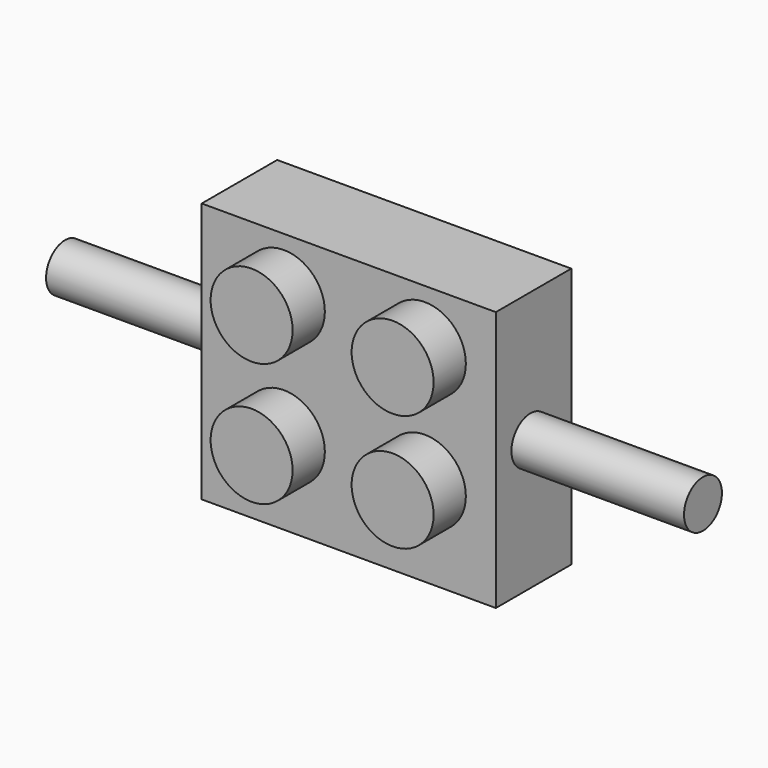
from build123d import *

# Parameters (mm, degrees)
F0_R      = 7.84357
F0_R_2    = 7.775719
F1_DEPTH  = 5.67
F2_W      = 17.690338
F2_H      = 15.67
F3_DEPTH  = 5.67
F4_R      = 1.425
F5_DEPTH  = 10.38
F6_R      = 1.425
F7_DEPTH  = 10.38
F9_R      = 2.465
F10_DEPTH = 2.425
F11_W     = 13.306394
F11_H     = 11.622041
F12_DEPTH = 3
F13_R     = 2.75
F13_R_2   = 1.75
F14_DEPTH = 2


with BuildPart() as f1:
    # F0 (on Front) → F1 (new body)
    with BuildSketch(Plane.XZ):
        with Locations((-31.018244, 13.502214)):
            Circle(F0_R)
        with Locations((27.656266, 13.502214)):
            Circle(F0_R_2)
        with Locations((-31.018244, -35.786617)):
            Circle(F0_R_2)
        with Locations((27.656266, -35.786617)):
            Circle(F0_R_2)
    extrude(amount=F1_DEPTH)


with BuildPart() as f3:
    # F2 (on Front) → F3 (new body)
    with BuildSketch(Plane.XZ):
        with Locations((-76.058906, 37.108815)):
            Rectangle(F2_W, F2_H)
    extrude(amount=F3_DEPTH)

    # F4 (on face) → F5 (join)
    with BuildSketch(Plane(origin=(-84.904075, 0, 0), x_dir=(0, -1, 0), z_dir=(-1, 0, 0))):
        with Locations((2.974371, 37.108815)):
            Circle(F4_R)
    extrude(amount=F5_DEPTH)

    # F6 (on face) → F7 (join)
    with BuildSketch(Plane.YZ.offset(-67.213737)):
        with Locations((-3.072243, 37.108815)):
            Circle(F6_R)
    extrude(amount=F7_DEPTH)

    # F9 (on face) → F10 (join)
    with BuildSketch(Plane.XZ.offset(5.67)):
        with Locations((-79.964688, 41.62437)):
            Circle(F9_R)
        with Locations((-71.483449, 41.62437)):
            Circle(F9_R)
        with Locations((-79.964688, 34.203287)):
            Circle(F9_R)
        with Locations((-71.483449, 34.600842)):
            Circle(F9_R)
    extrude(amount=F10_DEPTH)

    # F11 (on face) → F12 (cut)
    with BuildSketch(Plane(origin=(0, 0, 0), x_dir=(-1, 0, 0), z_dir=(0, 1, 0))):
        with Locations((76.318003, 37.002533)):
            Rectangle(F11_W, F11_H)
    extrude(amount=-F12_DEPTH, mode=Mode.SUBTRACT)

    # F13 (on face) → F14 (join)
    with BuildSketch(Plane(origin=(0, -3, 0), x_dir=(-1, 0, 0), z_dir=(0, 1, 0))):
        with Locations((76.065354, 37.592057)):
            Circle(F13_R)
        with Locations((76.065354, 37.592057)):
            Circle(F13_R_2, mode=Mode.SUBTRACT)
    extrude(amount=F14_DEPTH)


solid = f3.part
